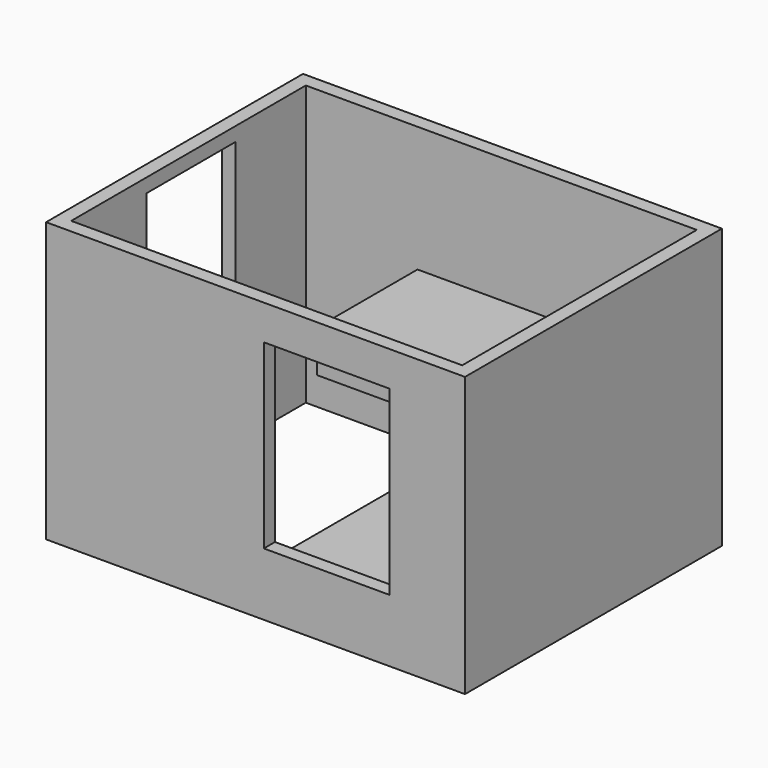
from build123d import *

# Parameters (mm, degrees)
F0_W     = 76.2
F0_H     = 58.42
F0_W_2   = 71.12
F0_H_2   = 53.34
F1_DEPTH = 50.8
F2_W     = 50.8
F2_H     = 7.62
F6_DEPTH = 22.86
F7_W     = 50.8
F7_H     = 7.62
F8_DEPTH = 35.56
F3_W     = 20.32
F3_H     = 48.26
F9_DEPTH = 2.54
F4_W     = 22.86
F4_H     = 33.02
F5_DEPTH = 2.54


with BuildPart() as f1:
    # F0 (on Top) → F1 (new body)
    with BuildSketch(Plane.XY):
        with Locations((31.363072, -14.94423)):
            Rectangle(F0_W, F0_H)
        with Locations((31.363072, -14.94423)):
            Rectangle(F0_W_2, F0_H_2, mode=Mode.SUBTRACT)
    extrude(amount=F1_DEPTH)

    # F2 (on face) → F6 (join)
    with BuildSketch(Plane.XZ.offset(-11.72577)):
        with Locations((41.523072, 24.13)):
            Rectangle(F2_W, F2_H)
    extrude(amount=F6_DEPTH)

    # F7 (on face) → F8 (join)
    with BuildSketch(Plane(origin=(66.923072, 0, 0), x_dir=(0, -1, 0), z_dir=(-1, 0, 0))):
        with Locations((13.67423, 3.81)):
            Rectangle(F7_W, F7_H)
    extrude(amount=F8_DEPTH)

    # F3 (on face) → F9 (cut, through all)
    with BuildSketch(Plane(origin=(-6.736928, 0, 0), x_dir=(0, -1, 0), z_dir=(-1, 0, 0))):
        with Locations((14.370841, 24.13)):
            Rectangle(F3_W, F3_H)
    extrude(amount=-F9_DEPTH, mode=Mode.SUBTRACT)

    # F4 (on face) → F5 (cut, through all)
    with BuildSketch(Plane.XZ.offset(44.15423)):
        with Locations((44.301499, 27.94)):
            Rectangle(F4_W, F4_H)
    extrude(amount=-F5_DEPTH, mode=Mode.SUBTRACT)


solid = f1.part
